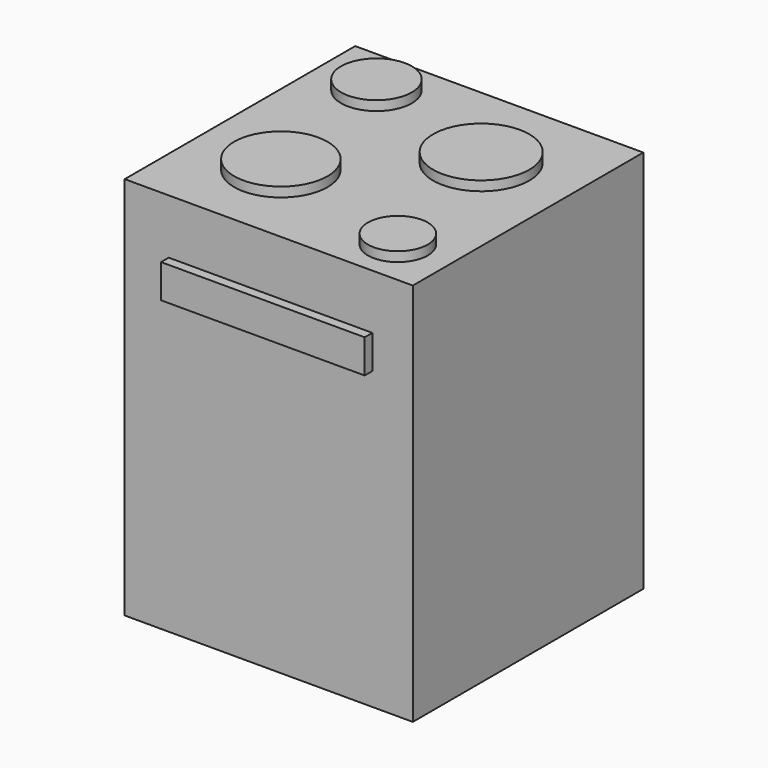
from build123d import *

# Parameters (mm, degrees)
F0_W     = 914.4
F0_H     = 914.4
F1_DEPTH = 1219.2
F2_R     = 112.2615
F2_R_2   = 94.92904
F2_R_3   = 152.671278
F2_R_4   = 148.211115
F3_DEPTH = 30.48
F4_W     = 646.188111
F4_H     = 106.785357
F5_DEPTH = 30.48


with BuildPart() as f1:
    # F0 (on Top) → F1 (new body)
    with BuildSketch(Plane.XY):
        with Locations((4.408748, 9.645843)):
            Rectangle(F0_W, F0_H)
    extrude(amount=F1_DEPTH)

    # F2 (on face) → F3 (join)
    with BuildSketch(Plane.XY.offset(1219.2)):
        with Locations((-263.714761, 314.844251)):
            Circle(F2_R)
        with Locations((294.854611, -298.486859)):
            Circle(F2_R_2)
        with Locations((182.593152, 172.46379)):
            Circle(F2_R_3)
        with Locations((-181.572214, -167.058766)):
            Circle(F2_R_4)
    extrude(amount=F3_DEPTH)

    # F4 (on face) → F5 (join)
    with BuildSketch(Plane.XZ.offset(447.554157)):
        with Locations((10.093763, 991.878598)):
            Rectangle(F4_W, F4_H)
    extrude(amount=F5_DEPTH)


solid = f1.part
